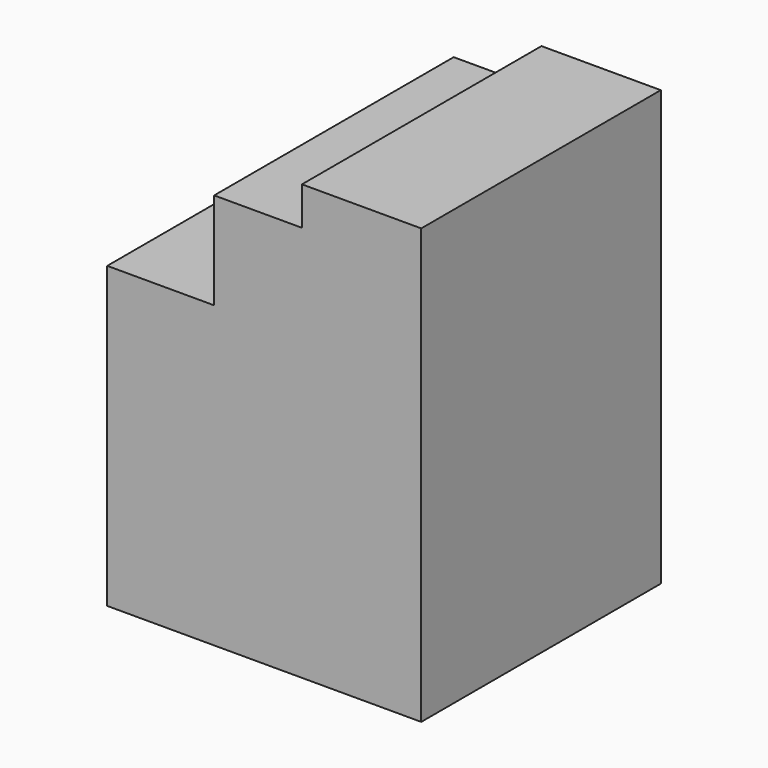
from build123d import *

# Parameters (mm, degrees)
F1_DEPTH = 25.4
F2_DEPTH = 50.8


with BuildPart() as f1:
    # F0 (on Front) → F1 (new body)
    with BuildSketch(Plane.XZ):
        Polygon((-2.476349, 2.482411), (0, 2.482411), (0, 76.2), (-20.241193, 76.2), (-20.241193, 69.704503), (-35.135657, 69.704503), (-35.135657, 53.282411), (-53.276349, 53.282411), (-53.276349, 2.482411), align=None)
    extrude(amount=F1_DEPTH)

    # F0 (on Front) → F2 (join)
    with BuildSketch(Plane.XZ):
        Polygon((-2.476349, 2.482411), (0, 2.482411), (0, 76.2), (-20.241193, 76.2), (-20.241193, 69.704503), (-35.135657, 69.704503), (-35.135657, 53.282411), (-53.276349, 53.282411), (-53.276349, 2.482411), align=None)
    extrude(amount=F2_DEPTH)


solid = f1.part
